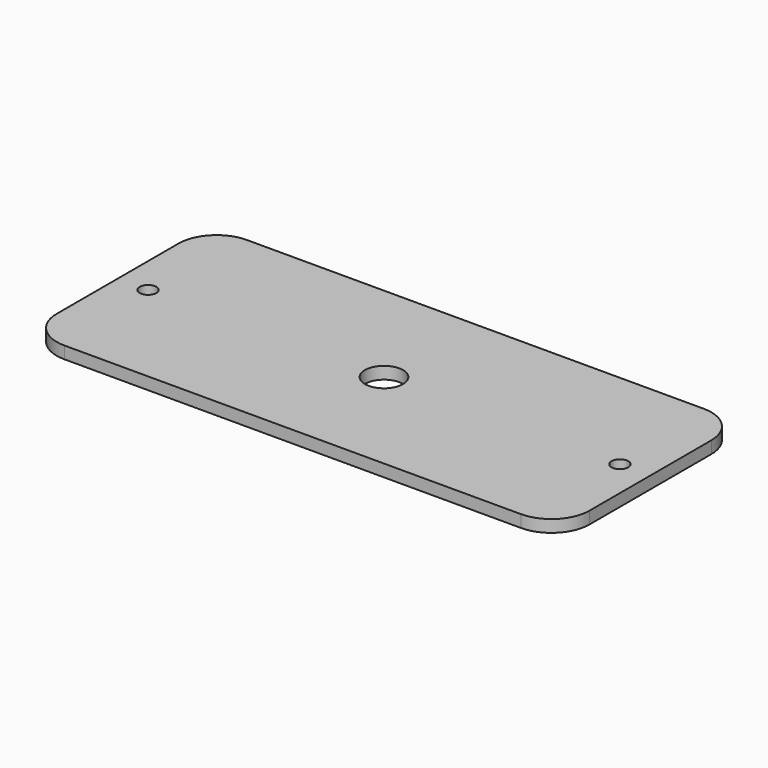
from build123d import *

# Parameters (mm, degrees)
F1_DEPTH = 0.8
F2_R     = 0.55
F3_DEPTH = 0.801


with BuildPart() as f1:
    # F0 (on Top) → F1 (new body)
    with BuildSketch(Plane.XY):
        with BuildLine():
            Line((15, 7.5), (-15, 7.5))
            ThreePointArc((-15, 7.5), (-16.767766953, 6.767766953), (-17.5, 5))
            Line((-17.5, 5), (-17.5, -5))
            ThreePointArc((-17.5, -5), (-16.767766953, -6.767766953), (-15, -7.5))
            Line((-15, -7.5), (15, -7.5))
            ThreePointArc((15, -7.5), (16.767766953, -6.767766953), (17.5, -5))
            Line((17.5, -5), (17.5, 5))
            ThreePointArc((17.5, 5), (16.767766953, 6.767766953), (15, 7.5))
        make_face()
    extrude(amount=F1_DEPTH)

    # F2 (on face) → F3 (cut, through all)
    with BuildSketch(Plane.XY.offset(0.8)):
        with BuildLine():
            Line((0, 0), (1.25, 0))
            ThreePointArc((1.25, 0), (0, 1.25), (-1.25, 0))
            Line((-1.25, 0), (0, 0))
        make_face()
        with BuildLine():
            ThreePointArc((-1.25, 0), (0, -1.25), (1.25, 0))
            Line((1.25, 0), (0, 0))
            Line((0, 0), (-1.25, 0))
        make_face()
        with Locations((-15.5, 0)):
            Circle(F2_R)
        with BuildLine():
            ThreePointArc((16.05, 0), (15.5, 0.55), (14.95, 0))
            ThreePointArc((14.95, 0), (15.5, -0.55), (16.05, 0))
        make_face()
    extrude(amount=-F3_DEPTH, mode=Mode.SUBTRACT)


solid = f1.part
